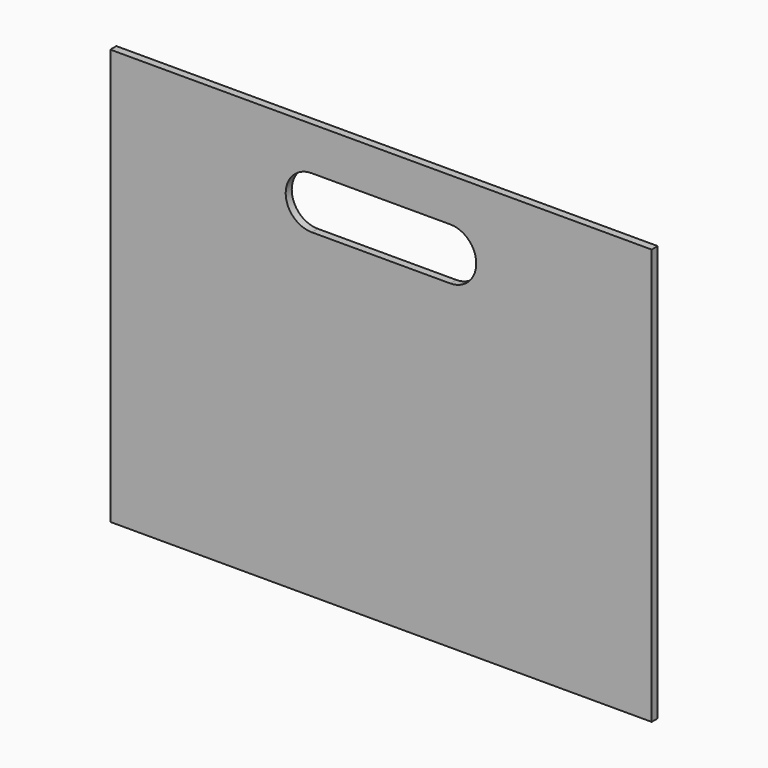
from build123d import *

# Parameters (mm, degrees)
F0_W     = 396.875
F0_H     = 304.8
F1_DEPTH = 5.55625


with BuildPart() as f1:
    # F0 (on Front) → F1 (new body)
    with BuildSketch(Plane.XZ):
        with Locations((0, 158.75)):
            Rectangle(F0_W, F0_H)
        with BuildLine():
            ThreePointArc((-50.8, 241.3), (-69.85, 260.35), (-50.8, 279.4))
            Line((-50.8, 279.4), (50.8, 279.4))
            ThreePointArc((50.8, 279.4), (64.270384, 273.820384), (69.85, 260.35))
            ThreePointArc((69.85, 260.35), (64.270384, 246.879616), (50.8, 241.3))
            Line((50.8, 241.3), (-50.8, 241.3))
        make_face(mode=Mode.SUBTRACT)
    extrude(amount=F1_DEPTH)


solid = f1.part
